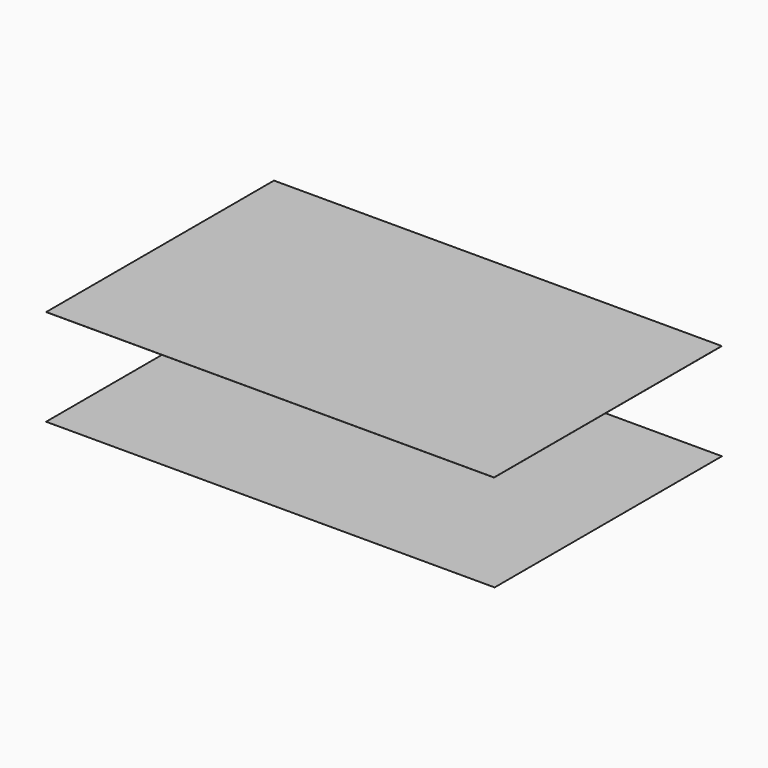
from build123d import *

# Parameters (mm, degrees)
F1_START = -609.6
F0_W     = 3481.8031354523
F0_H     = 2133.6
F1_DEPTH = 2.54
F2_W     = 11309.0782165527
F2_H     = 7163.0191802979
F3_DEPTH = 0.254
F5_START = 2438.4
F4_W     = 11290.5387878418
F4_H     = 7176.6300201416
F5_DEPTH = 2.54


with BuildPart() as f1:
    # F0 (on Front) → F1 (new body)
    with BuildSketch(Plane.XZ.offset(F1_START)):
        with Locations((-1740.9015677261, 1066.8)):
            Rectangle(F0_W, F0_H)
    extrude(amount=-F1_DEPTH)


with BuildPart() as f3:
    # F2 (on Top) → F3 (new body)
    with BuildSketch(Plane.XY):
        Rectangle(F2_W, F2_H)
    extrude(amount=-F3_DEPTH)


with BuildPart() as f5:
    # F4 (on Top) → F5 (new body)
    with BuildSketch(Plane.XY.offset(F5_START)):
        Rectangle(F4_W, F4_H)
    extrude(amount=F5_DEPTH)


solid = Compound([f1.part, f3.part, f5.part])
